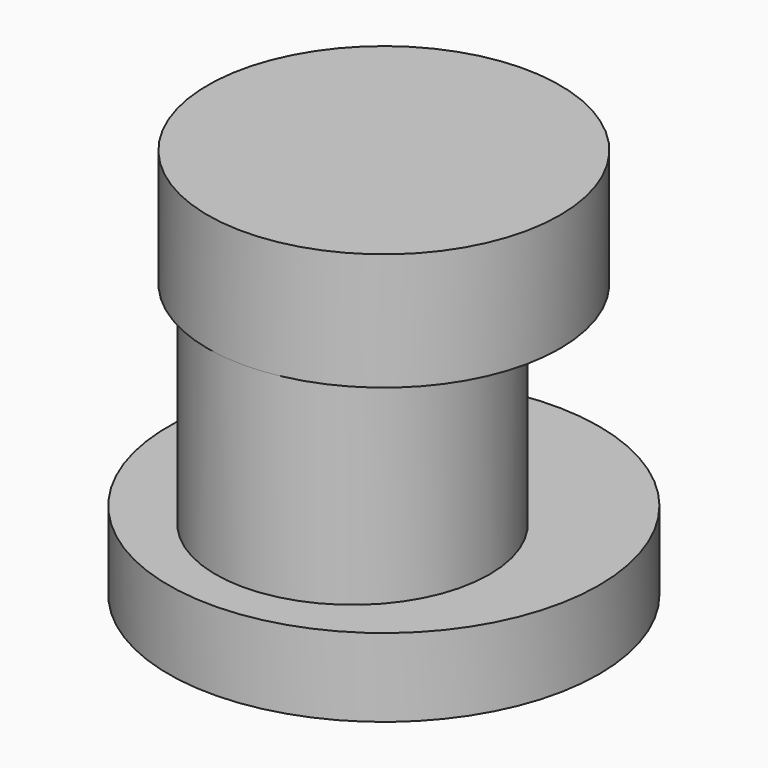
from build123d import *

# Parameters (mm, degrees)
F0_R     = 5.5
F1_DEPTH = 2
F2_R     = 3.5
F3_DEPTH = 5
F4_R     = 4.5
F5_DEPTH = 3
F6_R     = 1.5
F7_DEPTH = 8


with BuildPart() as f1:
    # F0 (on Top) → F1 (new body)
    with BuildSketch(Plane.XY):
        Circle(F0_R)
    extrude(amount=F1_DEPTH)

    # F2 (on face) → F3 (join)
    with BuildSketch(Plane.XY.offset(2)):
        with Locations((0, -1)):
            Circle(F2_R)
    extrude(amount=F3_DEPTH)

    # F4 (on face) → F5 (join)
    with BuildSketch(Plane.XY.offset(7)):
        Circle(F4_R)
    extrude(amount=F5_DEPTH)

    # F6 (on face) → F7 (cut)
    with BuildSketch(Plane(origin=(0, 0, 0), x_dir=(1, 0, 0), z_dir=(0, 0, -1))):
        Circle(F6_R)
    extrude(amount=-F7_DEPTH, mode=Mode.SUBTRACT)


solid = f1.part
